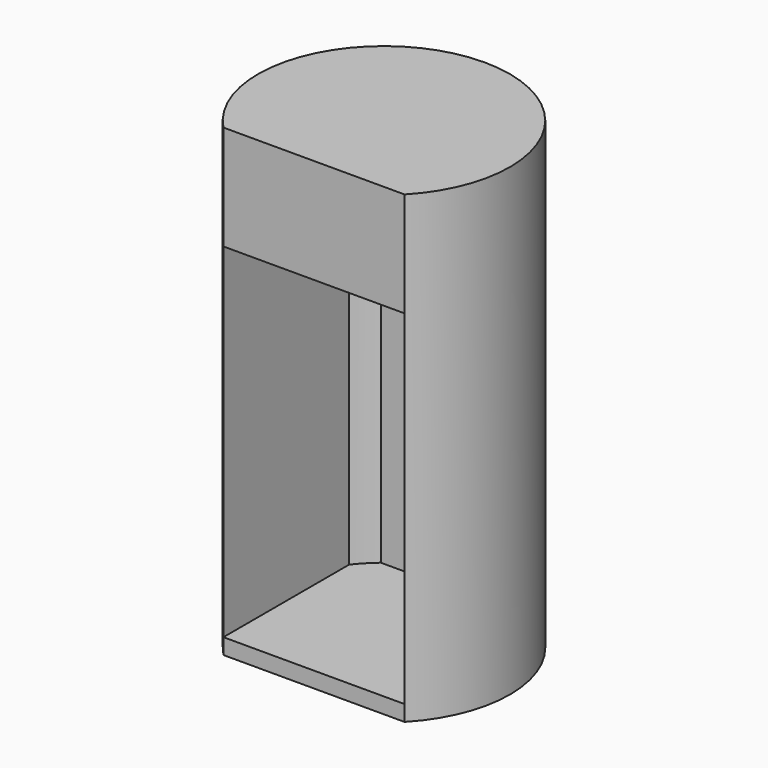
from build123d import *

# Parameters (mm, degrees)
F0_R      = 16
F0_R_2    = 14.5
F1_DEPTH  = 55
F2_R      = 16
F3_DEPTH  = 2
F4_R      = 16
F5_DEPTH  = 2
F7_DEPTH  = 59.001
F9_DEPTH  = 58
F10_W     = 23
F10_H     = 55
F11_DEPTH = 3
F13_DEPTH = 11.3


with BuildPart() as f1:
    # F0 (on Top) → F1 (new body)
    with BuildSketch(Plane.XY):
        Circle(F0_R)
        Circle(F0_R_2, mode=Mode.SUBTRACT)
    extrude(amount=F1_DEPTH)

    # F2 (on face) → F3 (join)
    with BuildSketch(Plane.XY.offset(55)):
        Circle(F2_R)
    extrude(amount=F3_DEPTH)

    # F4 (on face) → F5 (join)
    with BuildSketch(Plane(origin=(0, 0, 0), x_dir=(1, 0, 0), z_dir=(0, 0, -1))):
        Circle(F4_R)
    extrude(amount=F5_DEPTH)

    # F6 (on face) → F7 (cut, through all)
    with BuildSketch(Plane(origin=(0, 0, -2), x_dir=(1, 0, 0), z_dir=(0, 0, -1))):
        with BuildLine():
            Line((-11.5, 11.1242977306), (11.5, 11.1242977306))
            ThreePointArc((11.5, 11.1242977306), (0, 16), (-11.5, 11.1242977306))
        make_face()
    extrude(amount=-F7_DEPTH, mode=Mode.SUBTRACT)

    # F8 (on face) → F9 (join)
    with BuildSketch(Plane(origin=(0, 0, -2), x_dir=(1, 0, 0), z_dir=(0, 0, -1))):
        with BuildLine():
            Line((-11.5, -11.1242977306), (-11.5, 11.1242977306))
            ThreePointArc((-11.5, 11.1242977306), (-16, 0), (-11.5, -11.1242977306))
        make_face()
        with BuildLine():
            ThreePointArc((-11.5, -11.1242977306), (0, -16), (11.5, -11.1242977306))
            Line((11.5, -11.1242977306), (-11.5, -11.1242977306))
        make_face()
        with BuildLine():
            ThreePointArc((11.5, -11.1242977306), (16, 0), (11.5, 11.1242977306))
            Line((11.5, 11.1242977306), (11.5, -11.1242977306))
        make_face()
    extrude(amount=-F9_DEPTH)

    # F10 (on face) → F11 (cut)
    with BuildSketch(Plane.XZ.offset(11.1242977306)):
        with Locations((0, 27.5)):
            Rectangle(F10_W, F10_H)
    extrude(amount=-F11_DEPTH, mode=Mode.SUBTRACT)

    # F12 (on face) → F13 (join)
    with BuildSketch(Plane(origin=(0, 0, 55), x_dir=(1, 0, 0), z_dir=(0, 0, -1))):
        with BuildLine():
            Line((11.5, -8.8317608663), (11.5, 11.1242977306))
            Line((11.5, 11.1242977306), (-11.5, 11.1242977306))
            Line((-11.5, 11.1242977306), (-11.5, -8.8317608663))
            ThreePointArc((-11.5, -8.8317608663), (-10.4632462758, -10.0384499487), (-9.3005376189, -11.1242977306))
            Line((-9.3005376189, -11.1242977306), (9.3005376189, -11.1242977306))
            ThreePointArc((9.3005376189, -11.1242977306), (10.4632462758, -10.0384499487), (11.5, -8.8317608663))
        make_face()
        with BuildLine():
            Line((0.65, -4.4), (-0.65, -4.4))
            ThreePointArc((-0.65, -4.4), (-8.0759144982, -7.4759144982), (-5, -0.05))
            Line((-5, -0.05), (-5, 0.05))
            ThreePointArc((-5, 0.05), (-8.0759144982, 7.4759144982), (-0.65, 4.4))
            Line((-0.65, 4.4), (0.65, 4.4))
            ThreePointArc((0.65, 4.4), (5, 8.75), (9.35, 4.4))
            ThreePointArc((9.35, 4.4), (8.0759144982, 1.3240855018), (5, 0.05))
            Line((5, 0.05), (5, -0.05))
            ThreePointArc((5, -0.05), (8.0759144982, -1.3240855018), (9.35, -4.4))
            ThreePointArc((9.35, -4.4), (5, -8.75), (0.65, -4.4))
        make_face(mode=Mode.SUBTRACT)
        with BuildLine():
            ThreePointArc((-5, -0.05), (-1.9240855018, -1.3240855018), (-0.65, -4.4))
            Line((-0.65, -4.4), (0.65, -4.4))
            ThreePointArc((0.65, -4.4), (1.9240855018, -1.3240855018), (5, -0.05))
            Line((5, -0.05), (5, 0.05))
            ThreePointArc((5, 0.05), (1.9240855018, 1.3240855018), (0.65, 4.4))
            Line((0.65, 4.4), (-0.65, 4.4))
            ThreePointArc((-0.65, 4.4), (-1.9240855018, 1.3240855018), (-5, 0.05))
            Line((-5, 0.05), (-5, -0.05))
        make_face()
    extrude(amount=F13_DEPTH)


solid = f1.part
